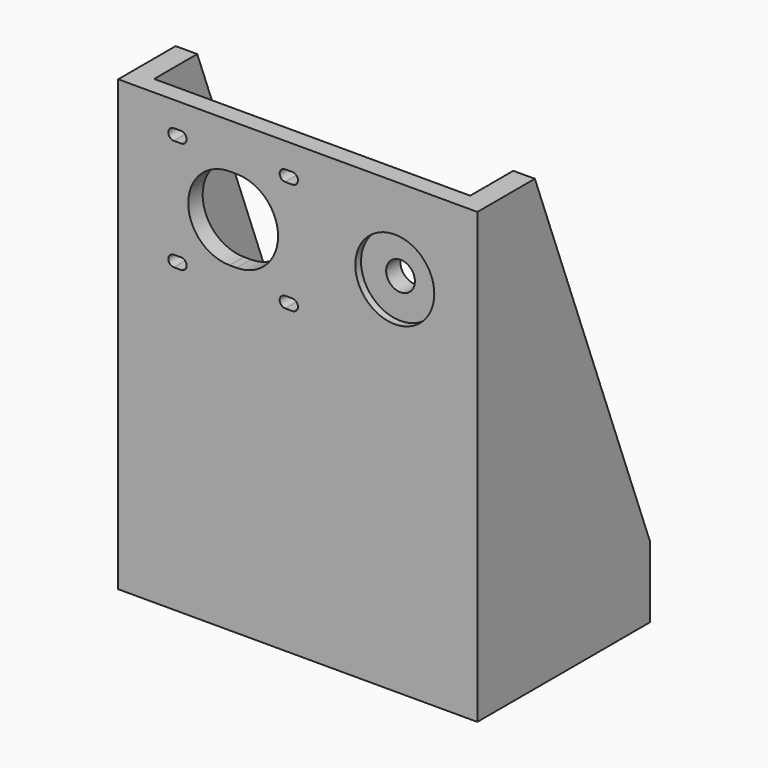
from build123d import *

# Parameters (mm, degrees)
CYLINDER040_R     = 11
CYLINDER040_DEPTH = 8
CYLINDER041_R     = 4
CYLINDER041_DEPTH = 34
CYLINDER046_R     = 1.6
CYLINDER046_DEPTH = 10
EXTRUDE031_DEPTH  = 10
CYLINDER039_R     = 11
CYLINDER039_DEPTH = 8
BOX010_W          = 88
BOX010_H          = 60
BOX010_DEPTH      = 128
EXTRUDE005_DEPTH  = 100
CYLINDER038_R     = 17
CYLINDER038_DEPTH = 8


with BuildPart() as cilindro040:
    # Cylinder040 → Cylinder040 (new body)
    with BuildSketch(Plane(origin=(203, 25, 2), x_dir=(1, 0, 0), z_dir=(0, 1, 0))):
        Circle(CYLINDER040_R)
    extrude(amount=CYLINDER040_DEPTH)


with BuildPart() as cilindro041:
    # Cylinder041 → Cylinder041 (new body)
    with BuildSketch(Plane(origin=(203, 8, 2), x_dir=(1, 0, 0), z_dir=(0, 1, 0))):
        Circle(CYLINDER041_R)
    extrude(amount=CYLINDER041_DEPTH)


with BuildPart() as cono:
    # Cone → Cone (revolve)
    with BuildSketch(Plane(origin=(0, 0, -96), x_dir=(1, 0, 0), z_dir=(0, -1, 0))):
        Polygon((0, 0), (1.6, 0), (4.1, 3), (0, 3), align=None)
    revolve(axis=Axis((0, 0, -96), (0, 0, 1)))


with BuildPart() as cilindro046:
    # Cylinder046 → Cylinder046 (new body)
    with BuildSketch(Plane.XY.offset(-106)):
        Circle(CYLINDER046_R)
    extrude(amount=CYLINDER046_DEPTH)


with BuildPart() as fusion030:
    # Fusion030 base: copy of Cilindro046
    add(cilindro046.part)

    # Fusion030: union Cono
    add(cono.part)


with BuildPart() as fusion030_1:
    # Fusion030 placement: moved
    add(fusion030.part.moved(Location((207, 66, 0))))


with BuildPart() as fusion031:
    # Fusion031 base: copy of Cilindro046
    add(cilindro046.part)

    # Fusion031: union Cono
    add(cono.part)


with BuildPart() as fusion031_1:
    # Fusion031 placement: moved
    add(fusion031.part.moved(Location((145, 66, 0))))


with BuildPart() as fusion032:
    # Fusion032 base: copy of Cilindro046
    add(cilindro046.part)

    # Fusion032: union Cono
    add(cono.part)


with BuildPart() as fusion032_1:
    # Fusion032 placement: moved
    add(fusion032.part.moved(Location((176, 37, 0))))


with BuildPart() as extrude031:
    # Sketch023 → Extrude031 (new body)
    with BuildSketch(Plane.XZ):
        with BuildLine():
            ThreePointArc((-1, 11.5), (-12.5, 0), (-1, -11.5))
            Line((-1, -11.5), (1, -11.5))
            ThreePointArc((1, -11.5), (12.5, 0), (1, 11.5))
            Line((-1, 11.5), (1, 11.5))
        make_face()
        with BuildLine():
            ThreePointArc((-16.5, 17.05), (-18.05, 15.5), (-16.5, 13.95))
            Line((-16.5, 13.95), (-14.5, 13.95))
            ThreePointArc((-14.5, 13.95), (-12.95, 15.5), (-14.5, 17.05))
            Line((-16.5, 17.05), (-14.5, 17.05))
        make_face()
        with BuildLine():
            ThreePointArc((14.5, 17.05), (12.95, 15.5), (14.5, 13.95))
            Line((14.5, 13.95), (16.5, 13.95))
            ThreePointArc((16.5, 13.95), (18.05, 15.5), (16.5, 17.05))
            Line((14.5, 17.05), (16.5, 17.05))
        make_face()
        with BuildLine():
            ThreePointArc((-16.5, -13.95), (-18.05, -15.5), (-16.5, -17.05))
            Line((-16.5, -17.05), (-14.5, -17.05))
            ThreePointArc((-14.5, -17.05), (-12.95, -15.5), (-14.5, -13.95))
            Line((-16.5, -13.95), (-14.5, -13.95))
        make_face()
        with BuildLine():
            ThreePointArc((14.5, -13.95), (12.95, -15.5), (14.5, -17.05))
            Line((14.5, -17.05), (16.499986, -17.05))
            ThreePointArc((16.499986, -17.05), (18.05, -15.500007), (16.5, -13.95))
            Line((14.5, -13.95), (16.5, -13.95))
        make_face()
    extrude(amount=EXTRUDE031_DEPTH)


with BuildPart() as extrude031_1:
    # Extrude031 placement: moved
    add(extrude031.part.moved(Location((158, 25, 2))))


with BuildPart() as fusion012:
    # Cylinder039 → Cylinder039 (new body)
    with BuildSketch(Plane(origin=(203, 12, 2), x_dir=(1, 0, 0), z_dir=(0, 1, 0))):
        Circle(CYLINDER039_R)
    extrude(amount=CYLINDER039_DEPTH)

    # Fusion012: union Cilindro040, Cilindro041, Fusion030, Fusion031, Fusion032, Extrude031
    add(cilindro040.part)
    add(cilindro041.part)
    add(fusion030_1.part)
    add(fusion031_1.part)
    add(fusion032_1.part)
    add(extrude031_1.part)


with BuildPart() as cubo009:
    # Box010 → Box010 (new body)
    with BuildSketch(Plane(origin=(132, 23, -93), x_dir=(1, 0, 0), z_dir=(0, 0, 1))):
        with Locations((44, 30)):
            Rectangle(BOX010_W, BOX010_H)
    extrude(amount=BOX010_DEPTH)


with BuildPart() as cut010:
    # Sketch005 → Extrude005 (new body)
    with BuildSketch(Plane.YZ.offset(126)):
        Polygon((18, 26), (18, -99), (78, -99), (78, -79), (38, 26), align=None)
    extrude(amount=EXTRUDE005_DEPTH)

    # Cut010: cut Cubo009
    add(cubo009.part, mode=Mode.SUBTRACT)


with BuildPart() as soporte_motor:
    # Cylinder038 → Cylinder038 (new body)
    with BuildSketch(Plane(origin=(203, 23, 2), x_dir=(1, 0, 0), z_dir=(0, 1, 0))):
        Circle(CYLINDER038_R)
    extrude(amount=CYLINDER038_DEPTH)

    # Fusion013: union Cut010
    add(cut010.part)

    # Cut008: cut Fusion012
    add(fusion012.part, mode=Mode.SUBTRACT)


with BuildPart() as soporte_motor_1:
    # Cut008 placement: moved
    add(soporte_motor.part.moved(Location((0, 13.5, 0))))


solid = soporte_motor_1.part
